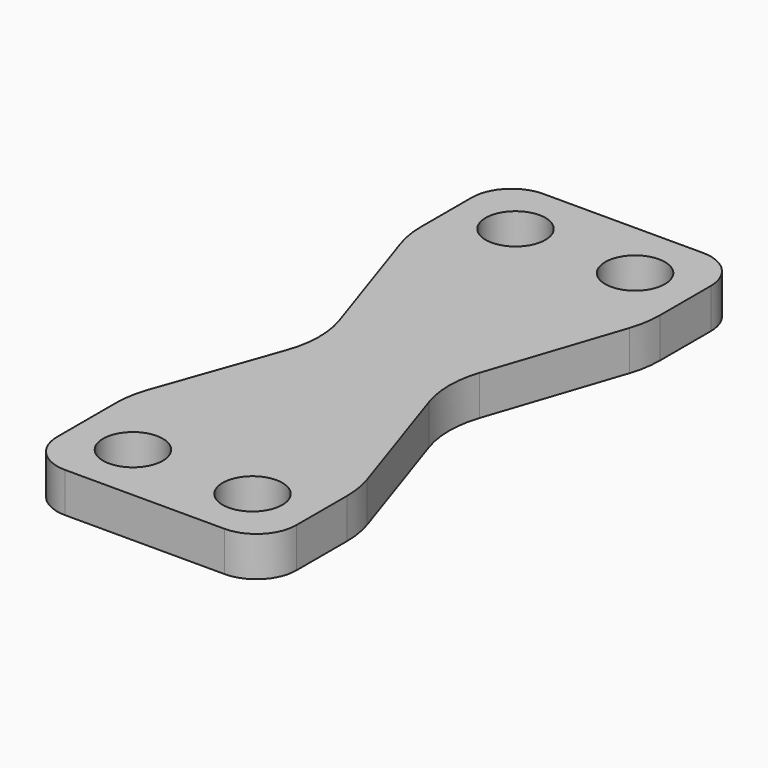
from build123d import *

# Parameters (mm, degrees)
F0_R     = 1.5
F1_DEPTH = 2


with BuildPart() as f1:
    # F0 (on Top) → F1 (new body)
    with BuildSketch(Plane.XY):
        with BuildLine():
            ThreePointArc((-57.214044, -21.459296), (-56.628257, -22.87351), (-55.214044, -23.459296))
            Line((-55.214044, -23.459296), (-47.214044, -23.459296))
            ThreePointArc((-47.214044, -23.459296), (-45.79983, -22.87351), (-45.214044, -21.459296))
            Line((-45.214044, -21.459296), (-45.214044, -18.270684))
            ThreePointArc((-45.214044, -18.270684), (-45.278606, -17.469773), (-45.470627, -16.689545))
            Line((-45.470627, -16.689545), (-47.686997, -10.040435))
            ThreePointArc((-47.686997, -10.040435), (-47.943581, -8.459296), (-47.686997, -6.878157))
            Line((-47.686997, -6.878157), (-45.470627, -0.229047))
            ThreePointArc((-45.470627, -0.229047), (-45.278606, 0.551181), (-45.214044, 1.352092))
            Line((-45.214044, 1.352092), (-45.214044, 4.540704))
            ThreePointArc((-45.214044, 4.540704), (-45.79983, 5.954918), (-47.214044, 6.540704))
            Line((-47.214044, 6.540704), (-55.214044, 6.540704))
            ThreePointArc((-55.214044, 6.540704), (-56.628257, 5.954918), (-57.214044, 4.540704))
            Line((-57.214044, 4.540704), (-57.214044, 1.352092))
            ThreePointArc((-57.214044, 1.352092), (-57.149481, 0.551181), (-56.95746, -0.229047))
            Line((-56.95746, -0.229047), (-54.7577, -6.828327))
            ThreePointArc((-54.7577, -6.828327), (-54.501338, -8.456588), (-54.788344, -10.079728))
            Line((-54.788344, -10.079728), (-56.926816, -16.113589))
            ThreePointArc((-56.926816, -16.113589), (-57.141713, -16.936462), (-57.214044, -17.783851))
            Line((-57.214044, -17.783851), (-57.214044, -21.459296))
        make_face()
        with Locations((-54.214044, -20.459296)):
            Circle(F0_R, mode=Mode.SUBTRACT)
        with Locations((-48.214044, -20.459296)):
            Circle(F0_R, mode=Mode.SUBTRACT)
        with Locations((-54.214044, 3.540704)):
            Circle(F0_R, mode=Mode.SUBTRACT)
        with Locations((-48.214044, 3.540704)):
            Circle(F0_R, mode=Mode.SUBTRACT)
    extrude(amount=F1_DEPTH)


solid = f1.part
